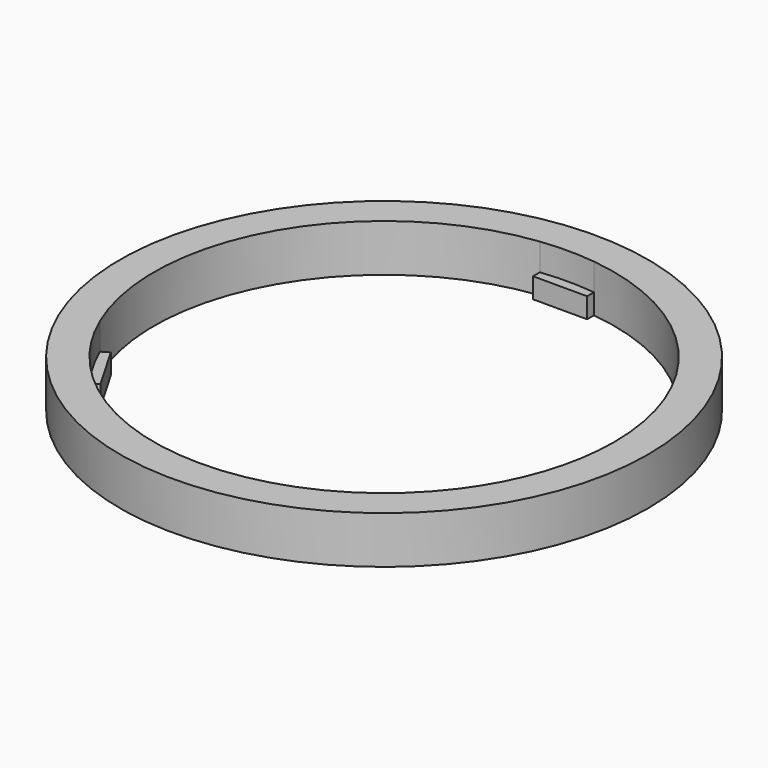
from build123d import *

# Parameters (mm, degrees)
F0_R     = 39
F1_DEPTH = 7
F2_DEPTH = 3
F3_DEPTH = 3
F4_DEPTH = 3


with BuildPart() as f1:
    # F0 (on Top) → F1 (new body)
    with BuildSketch(Plane.XY):
        Circle(F0_R)
        with BuildLine():
            ThreePointArc((4, 33.763886), (25.41653, 22.58318), (34, 0))
            ThreePointArc((34, 0), (33.30295, -6.849342), (31.240383, -13.417841))
            ThreePointArc((31.240383, -13.417841), (29.444864, -17), (27.240383, -20.346045))
            ThreePointArc((27.240383, -20.346045), (0, -34), (-27.240383, -20.346045))
            ThreePointArc((-27.240383, -20.346045), (-29.444864, -17), (-31.240383, -13.417841))
            ThreePointArc((-31.240383, -13.417841), (-29.444864, 17), (-4, 33.763886))
            ThreePointArc((-4, 33.763886), (0, 34), (4, 33.763886))
        make_face(mode=Mode.SUBTRACT)
    extrude(amount=F1_DEPTH)

    # F0 (on Top) → F2 (join)
    with BuildSketch(Plane.XY):
        with BuildLine():
            Line((4, 32.5), (4, 33.763886))
            ThreePointArc((4, 33.763886), (0, 34), (-4, 33.763886))
            Line((-4, 33.763886), (-4, 32.5))
            Line((-4, 32.5), (4, 32.5))
        make_face()
    extrude(amount=F2_DEPTH)

    # F0 (on Top) → F3 (join)
    with BuildSketch(Plane.XY):
        with BuildLine():
            ThreePointArc((27.240383, -20.346045), (29.444864, -17), (31.240383, -13.417841))
            Line((31.240383, -13.417841), (30.145826, -12.785898))
            Line((30.145826, -12.785898), (26.145826, -19.714102))
            Line((26.145826, -19.714102), (27.240383, -20.346045))
        make_face()
    extrude(amount=F3_DEPTH)

    # F0 (on Top) → F4 (join)
    with BuildSketch(Plane.XY):
        with BuildLine():
            Line((-30.145826, -12.785898), (-31.240383, -13.417841))
            ThreePointArc((-31.240383, -13.417841), (-29.444864, -17), (-27.240383, -20.346045))
            Line((-27.240383, -20.346045), (-26.145826, -19.714102))
            Line((-26.145826, -19.714102), (-30.145826, -12.785898))
        make_face()
    extrude(amount=F4_DEPTH)


solid = f1.part
